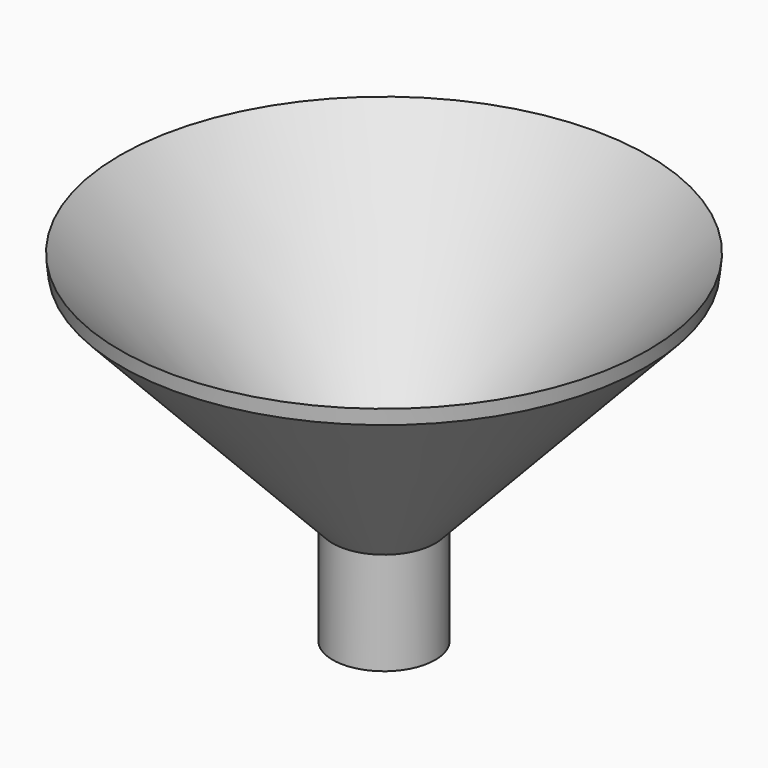
from build123d import *

# Parameters (mm, degrees)
F2_R     = 11.019259
F3_DEPTH = 50.8
F4_DEPTH = 25.4


with BuildPart() as f1:
    # F0 (on Front) → F1 (revolve)
    with BuildSketch(Plane.XZ):
        Polygon((0, -25.4), (0, 0), (52.254206, 55.461139), (52.654178, 59.21939), (-1.341835, 1.909547), (-12.7, 1.909547), (-12.7, -25.4), align=None)
    revolve(axis=Axis((-12.7, 0, -11.745227), (0, 0, 1)))

    # F2 (on Top) → F3 (cut)
    with BuildSketch(Plane.XY):
        with Locations((-12.766276, 0)):
            Circle(F2_R)
    extrude(amount=-F3_DEPTH, mode=Mode.SUBTRACT)

    # F2 (on Top) → F4 (cut)
    with BuildSketch(Plane.XY):
        with Locations((-12.766276, 0)):
            Circle(F2_R)
    extrude(amount=F4_DEPTH, mode=Mode.SUBTRACT)


solid = f1.part
